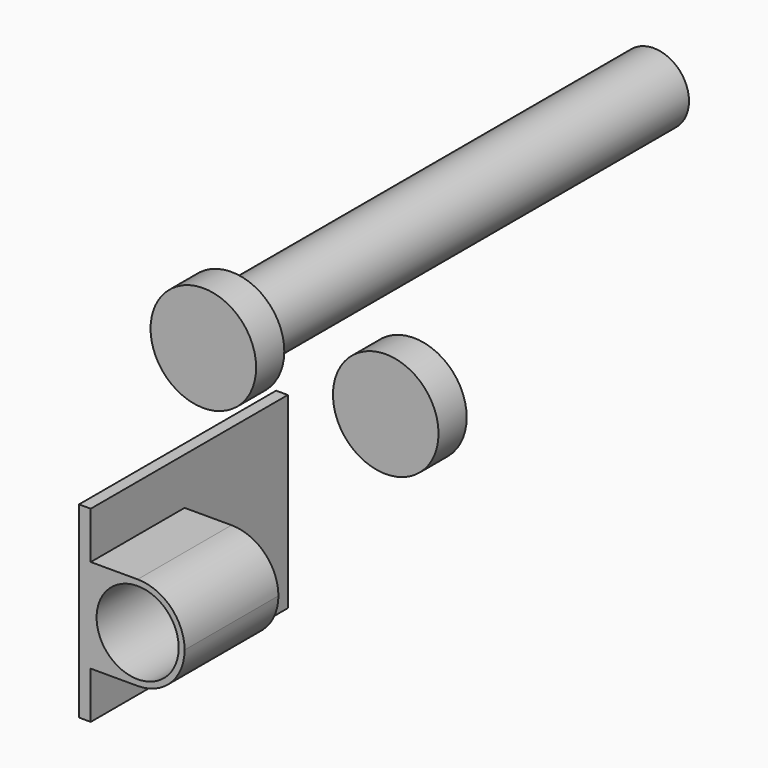
from build123d import *

# Parameters (mm, degrees)
F0_R     = 3.5
F1_DEPTH = 10
F2_DEPTH = 11
F3_R     = 4.5
F3_R_2   = 3
F4_DEPTH = 3
F5_DEPTH = 45


with BuildPart() as f1:
    # F0 (on Front) → F1 (new body)
    with BuildSketch(Plane.XZ):
        with BuildLine():
            ThreePointArc((0, -4), (2.828427, -2.828427), (4, 0))
            ThreePointArc((4, 0), (2.828427, 2.828427), (0, 4))
            ThreePointArc((0, 4), (-2.828427, 2.828427), (-4, 0))
            ThreePointArc((-4, 0), (-2.828427, -2.828427), (0, -4))
        make_face()
        Circle(F0_R, mode=Mode.SUBTRACT)
        with BuildLine():
            ThreePointArc((-4, 0), (-2.828427, 2.828427), (0, 4))
            Line((0, 4), (-4, 4))
            Line((-4, 4), (-4, 0))
        make_face()
        with BuildLine():
            Line((-4, -4), (0, -4))
            ThreePointArc((0, -4), (-2.828427, -2.828427), (-4, 0))
            Line((-4, 0), (-4, -4))
        make_face()
        Polygon((-4, -4), (-4, 0), (-5, 0), (-5, -8), (-4, -8), align=None)
        Polygon((-5, 0), (-4, 0), (-4, 4), (-4, 8), (-5, 8), align=None)
    extrude(amount=F1_DEPTH)

    # F0 (on Front) → F2 (join)
    with BuildSketch(Plane.XZ):
        Polygon((-5, 0), (-4, 0), (-4, 4), (-4, 8), (-5, 8), align=None)
        Polygon((-4, -4), (-4, 0), (-5, 0), (-5, -8), (-4, -8), align=None)
    extrude(amount=-F2_DEPTH)


with BuildPart() as f4:
    # F3 (on Front) → F4 (new body)
    with BuildSketch(Plane.XZ):
        with Locations((0, 18.510151)):
            Circle(F3_R)
        with Locations((0, 18.510151)):
            Circle(F3_R_2, mode=Mode.SUBTRACT)
        with Locations((15.548322, 18.611893)):
            Circle(F3_R)
        with Locations((0, 18.510151)):
            Circle(F3_R_2)
    extrude(amount=F4_DEPTH)

    # F3 (on Front) → F5 (join)
    with BuildSketch(Plane.XZ):
        with Locations((0, 18.510151)):
            Circle(F3_R_2)
    extrude(amount=-F5_DEPTH)


solid = Compound([f1.part, f4.part])
